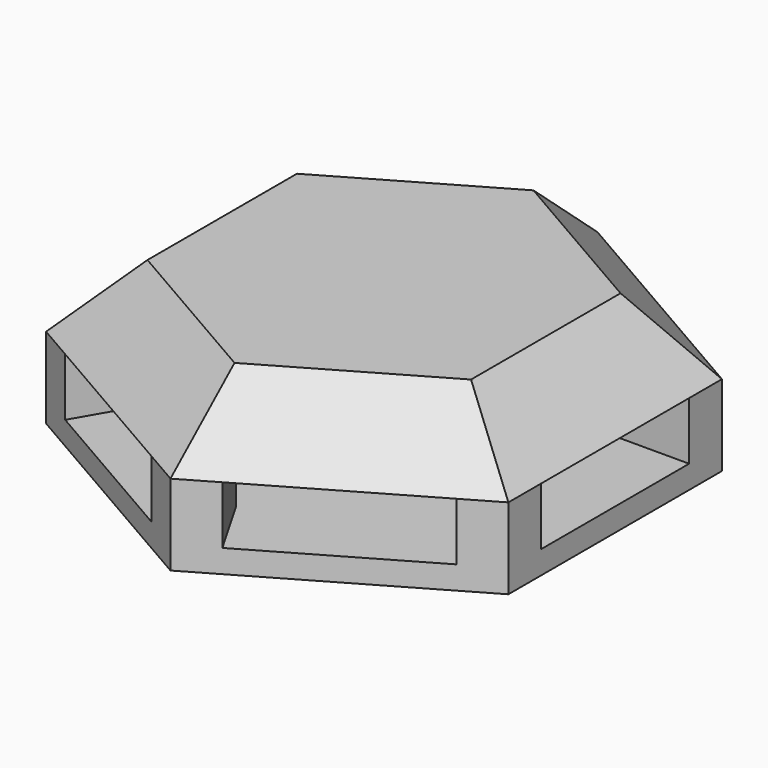
from build123d import *

# Parameters (mm, degrees)
BOX001_W                    = 8
BOX001_H                    = 20
BOX001_DEPTH                = 2.5
ARRAY_COUNT                 = 3
ARRAY_ANGLE                 = 120
PAD_DEPTH                   = 3
PAD_TAPER                   = 45
PAD001_DEPTH                = 3.5
FUSION_PLACEMENT_ANGLE      = 30
BASEFEATURE_PLACEMENT_ANGLE = 30
POCKET_DEPTH                = 3
POCKET_TAPER                = 45
CUT_PLACEMENT_ANGLE         = 30


with BuildPart() as array:
    # Box001 → Box001 (new body)
    with BuildSketch(Plane(origin=(-4, -10, -2.5), x_dir=(1, 0, 0), z_dir=(0, 0, 1))):
        with Locations((4, 10)):
            Rectangle(BOX001_W, BOX001_H)
    extrude(amount=BOX001_DEPTH)

    # Array: Array ×3 about axis
    array_axis = Axis((0, 0, 0), (0, 0, 1))


with BuildPart() as array_1:
    add(array.part)
    for i in range(1, ARRAY_COUNT):
        add(array.part.rotate(array_axis, i * ARRAY_ANGLE / (ARRAY_COUNT - 1)))


with BuildPart() as pad:
    # Sketch → Pad (new body)
    with BuildSketch(Plane.XY):
        Polygon((-11.547005, 0), (-5.773503, -10), (5.773503, -10), (11.547005, 0), (5.773503, 10), (-5.773503, 10), align=None)
    extrude(amount=PAD_DEPTH, taper=PAD_TAPER)


with BuildPart() as cell001:
    # Pad001 base: copy of Pad
    add(pad.part)

    # Sketch → Pad001 (new body)
    with BuildSketch(Plane.XY):
        Polygon((-11.547005, 0), (-5.773503, -10), (5.773503, -10), (11.547005, 0), (5.773503, 10), (-5.773503, 10), align=None)
    extrude(amount=-PAD001_DEPTH)

    # Fusion: union Pad
    add(pad.part)


with BuildPart() as cell001_1:
    # Fusion placement: moved
    add(cell001.part.rotate(Axis((0, 0, 0), (0, 0, 1)), FUSION_PLACEMENT_ANGLE))


with BuildPart() as cell001_2:
    # BaseFeature placement: moved
    add(cell001_1.part.rotate(Axis((0, 0, 0), (0, 0, -1)), BASEFEATURE_PLACEMENT_ANGLE))

    # Sketch002 → Pocket (cut)
    with BuildSketch(Plane(origin=(0, 0, -2), x_dir=(0.866025, 0.5, 0), z_dir=(0, 0, 1))):
        Polygon((0, 8), (-6.928203, 4), (-6.928203, -4), (0, -8), (6.928203, -4), (6.928203, 4), align=None)
    extrude(amount=POCKET_DEPTH, taper=POCKET_TAPER, mode=Mode.SUBTRACT)

    # Cut: cut Array
    add(array_1.part, mode=Mode.SUBTRACT)


with BuildPart() as cell001_3:
    # Cut placement: moved
    add(cell001_2.part.rotate(Axis((0, 0, 0), (0, 0, 1)), CUT_PLACEMENT_ANGLE))


with BuildPart() as cell001_4:
    # Clone placement: moved
    add(cell001_3.part.moved(Location((12.5, 21.650635, 0))))


solid = cell001_4.part
